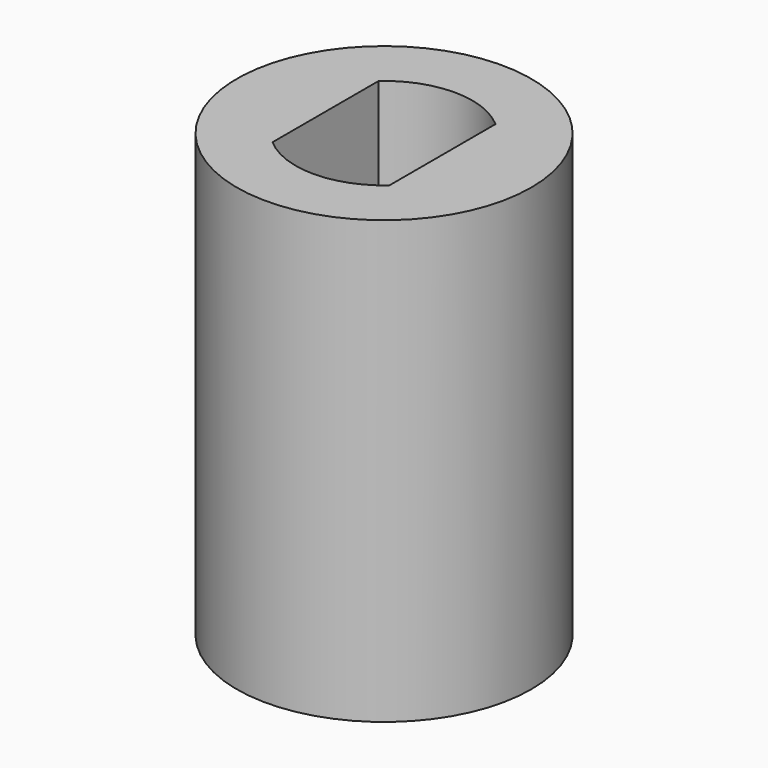
from build123d import *

# Parameters (mm, degrees)
F0_R     = 5
F1_DEPTH = 15


with BuildPart() as f1:
    # F0 (on Top) → F1 (new body)
    with BuildSketch(Plane.XY):
        Circle(F0_R)
        with BuildLine():
            ThreePointArc((1.984313, 2.25), (2.734313, 1.234313), (3, 0))
            ThreePointArc((3, 0), (2.734313, -1.234313), (1.984313, -2.25))
            ThreePointArc((1.984313, -2.25), (0, -3), (-1.984313, -2.25))
            ThreePointArc((-1.984313, -2.25), (-3, 0), (-1.984313, 2.25))
            ThreePointArc((-1.984313, 2.25), (0, 3), (1.984313, 2.25))
        make_face(mode=Mode.SUBTRACT)
        with BuildLine():
            Line((-1.984313, -2.25), (-1.984313, 2.25))
            ThreePointArc((-1.984313, 2.25), (-3, 0), (-1.984313, -2.25))
        make_face()
        with BuildLine():
            ThreePointArc((1.984313, -2.25), (2.734313, -1.234313), (3, 0))
            ThreePointArc((3, 0), (2.734313, 1.234313), (1.984313, 2.25))
            Line((1.984313, 2.25), (1.984313, -2.25))
        make_face()
    extrude(amount=F1_DEPTH)


solid = f1.part
